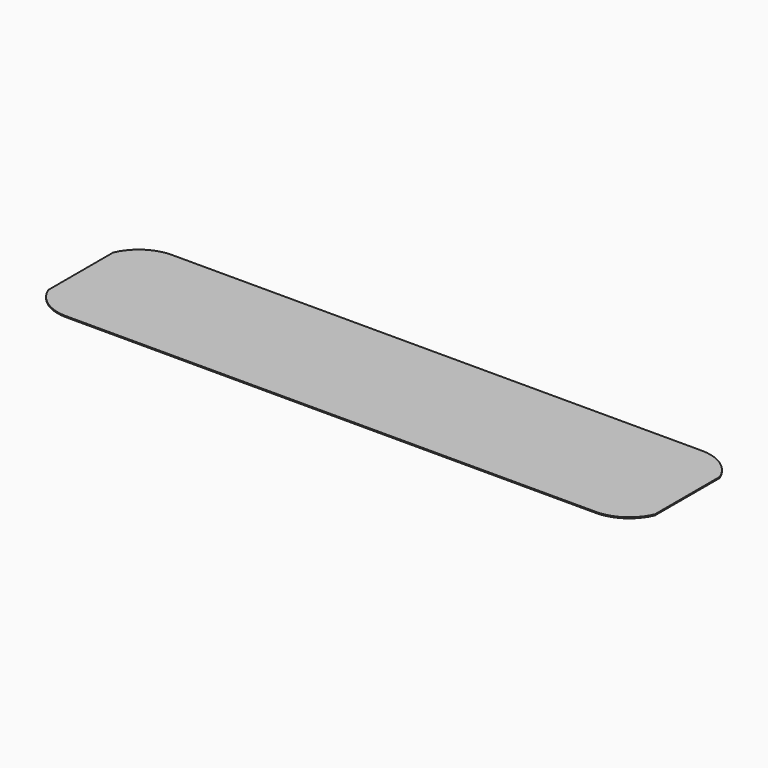
from build123d import *

# Parameters (mm, degrees)
F0_W     = 254
F0_H     = 63.5
F1_DEPTH = 0.508


with BuildPart() as f1:
    # F0 (on Top) → F1 (new body)
    with BuildSketch(Plane.XY):
        Rectangle(F0_W, F0_H)
        with BuildLine():
            Line((127, 31.75), (127, -31.75))
            ThreePointArc((127, -31.75), (138.088261, -28.398354), (145.463377, -19.465789))
            Line((145.463377, -19.465789), (145.463377, 19.465789))
            ThreePointArc((145.463377, 19.465789), (138.088261, 28.398354), (127, 31.75))
        make_face()
        with BuildLine():
            ThreePointArc((-145.463377, -19.465789), (-138.088261, -28.398354), (-127, -31.75))
            Line((-127, -31.75), (-127, 31.75))
            ThreePointArc((-127, 31.75), (-138.088261, 28.398354), (-145.463377, 19.465789))
            Line((-145.463377, 19.465789), (-145.463377, -19.465789))
        make_face()
    extrude(amount=F1_DEPTH)


solid = f1.part
